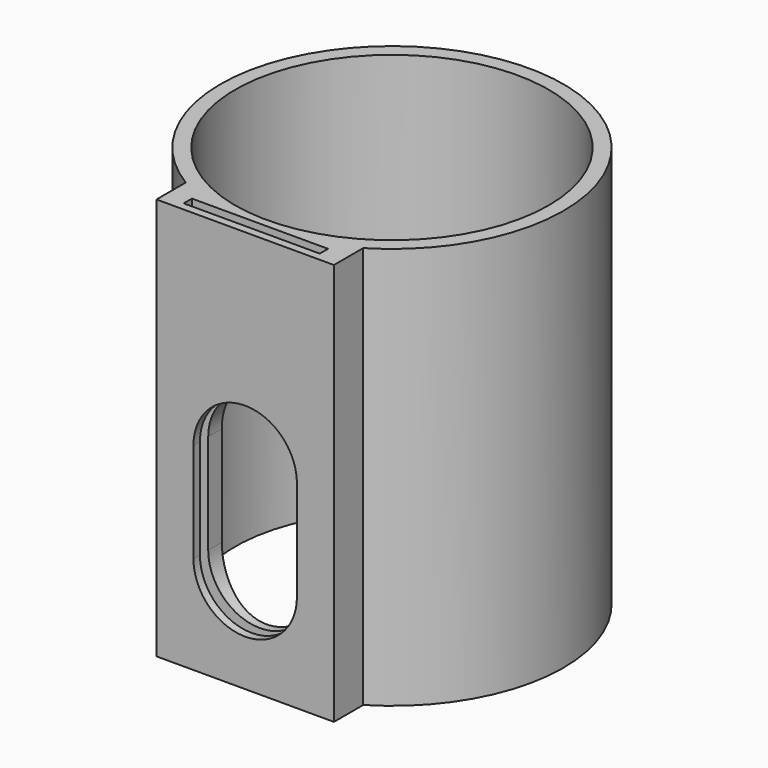
from build123d import *

# Parameters (mm, degrees)
F0_R     = 58
F0_R_2   = 53
F1_DEPTH = 136
F3_DEPTH = 136
F4_W     = 35
F4_H     = 33.777588
F5_DEPTH = 25
F6_W     = 46
F6_H     = 3.5
F7_DEPTH = 136


with BuildPart() as f1:
    # F0 (on Top) → F1 (new body)
    with BuildSketch(Plane.XY):
        Circle(F0_R)
        Circle(F0_R_2, mode=Mode.SUBTRACT)
    extrude(amount=F1_DEPTH)

    # F2 (on Top) → F3 (join)
    with BuildSketch(Plane.XY):
        Polygon((-8.05435, -54.732766), (-30, -45.9545), (-30, -62.025927), (30, -62.025927), (30, -47.670264), (6.974748, -54.732766), align=None)
    extrude(amount=F3_DEPTH)

    # F4 (on face) → F5 (cut)
    with BuildSketch(Plane.XZ.offset(62.025927)):
        with Locations((0, 50)):
            Rectangle(F4_W, F4_H)
        with BuildLine():
            Line((-17.5, 66.888794), (17.5, 66.888794))
            ThreePointArc((17.5, 66.888794), (0, 84.388794), (-17.5, 66.888794))
        make_face()
        with BuildLine():
            ThreePointArc((-17.5, 33.111206), (0, 15.611206), (17.5, 33.111206))
            Line((17.5, 33.111206), (-17.5, 33.111206))
        make_face()
    extrude(amount=-F5_DEPTH, mode=Mode.SUBTRACT)

    # F6 (on face) → F7 (cut)
    with BuildSketch(Plane.XY.offset(136)):
        with Locations((0, -57.525927)):
            Rectangle(F6_W, F6_H)
    extrude(amount=-F7_DEPTH, mode=Mode.SUBTRACT)


solid = f1.part
